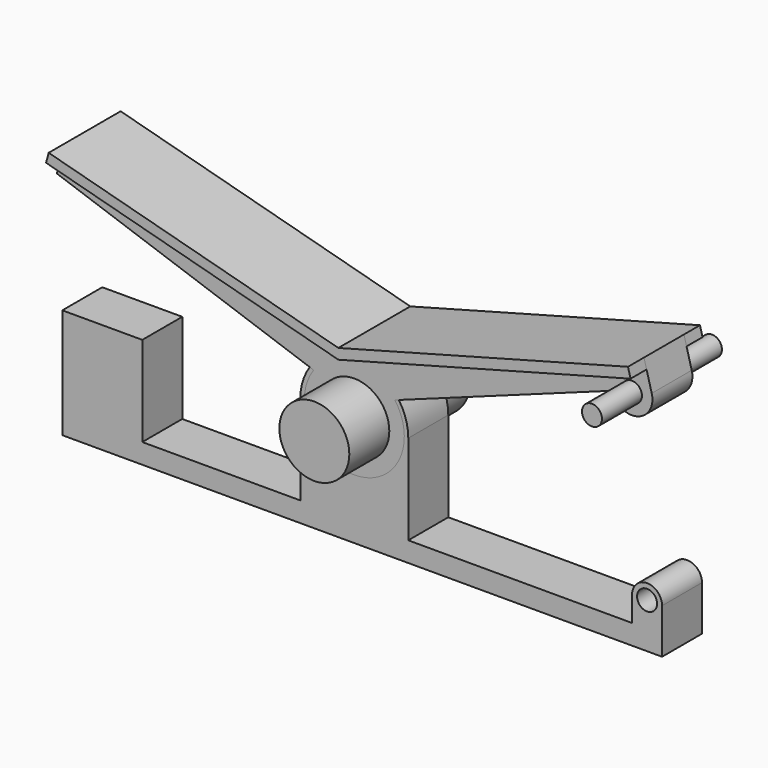
from build123d import *

# Parameters (mm, degrees)
SKETCH006_R       = 3.4
SKETCH006_R_2     = 1.000007
PAD003_DEPTH      = 2.5
PAD003_DEPTH_BACK = 2.5
PAD_DEPTH         = 2.5
PAD_DEPTH_BACK    = 2.5
SKETCH002_R       = 3.5
SKETCH002_R_2     = 1
PAD001_DEPTH      = 5
PAD001_DEPTH_BACK = 10
PAD002_DEPTH      = 2
PAD002_DEPTH_BACK = 7


with BuildPart() as body:
    # Sketch006 → Pad003 (new body, two sides)
    with BuildSketch(Plane.XZ) as pad003_sk:
        with BuildLine():
            Line((-29.212631, 0), (-29.212631, -11))
            Line((-29.212631, -11), (30.787369, -11))
            Line((30.787369, -11), (30.787369, -6.5))
            ThreePointArc((30.787369, -6.5), (29.287369, -5), (27.787369, -6.5))
            Line((27.787369, -6.5), (27.787369, -9))
            Line((27.787369, -9), (5.4, -9))
            Line((5.4, 0), (5.4, -9))
            ThreePointArc((5.4, 0), (0, 5.4), (-5.4, 0))
            Line((-5.4, 0), (-5.4, -9))
            Line((-5.4, -9), (-21.212631, -9))
            Line((-21.212631, 0), (-21.212631, -9))
            Line((-21.212631, 0), (-29.212631, 0))
        make_face()
        Circle(SKETCH006_R, mode=Mode.SUBTRACT)
        with Locations((29.287369, -6.5)):
            Circle(SKETCH006_R_2, mode=Mode.SUBTRACT)
    extrude(amount=PAD003_DEPTH)
    extrude(pad003_sk.sketch, amount=-PAD003_DEPTH_BACK)


with BuildPart() as body001:
    # Sketch001 → Pad (new body, two sides)
    with BuildSketch(Plane.XZ) as pad_sk:
        with BuildLine():
            Line((-29.754232, 11.866794), (-28.977775, 14.764571))
            Line((-28.977775, 14.764571), (0, 7))
            Line((0, 7), (28.977775, 14.764571))
            Line((28.977775, 14.764571), (29.754232, 11.866794))
            ThreePointArc((25.796873, 10.806423), (28.305738, 9.357929), (29.754232, 11.866794))
            Line((4.06409, 2.912589), (25.796873, 10.806423))
            ThreePointArc((-4.066107, 2.909773), (0.001732, -5), (4.06409, 2.912589))
            Line((-4.066107, 2.909773), (-29.754232, 11.866794))
        make_face()
    extrude(amount=PAD_DEPTH)
    extrude(pad_sk.sketch, amount=-PAD_DEPTH_BACK)

    # Sketch002 (on Face10 of Pad) → Pad001 (join, two sides)
    with BuildSketch(Plane.XZ.offset(2.5)) as pad001_sk:
        Circle(SKETCH002_R)
        with Locations((27.775552, 11.336608)):
            Circle(SKETCH002_R_2)
    extrude(amount=PAD001_DEPTH)
    extrude(pad001_sk.sketch, amount=-PAD001_DEPTH_BACK)

    # Sketch004 (on Face5 of Pad001) → Pad002 (join, two sides)
    with BuildSketch(Plane.XZ.offset(2.5)) as pad002_sk:
        Polygon((0, 7), (28.977775, 14.764571), (29.236594, 13.798646), (0, 5.964724), (-29.236594, 13.798646), (-28.977775, 14.764571), align=None)
    extrude(amount=PAD002_DEPTH)
    extrude(pad002_sk.sketch, amount=-PAD002_DEPTH_BACK)


solid = Compound([body.part, body001.part])
